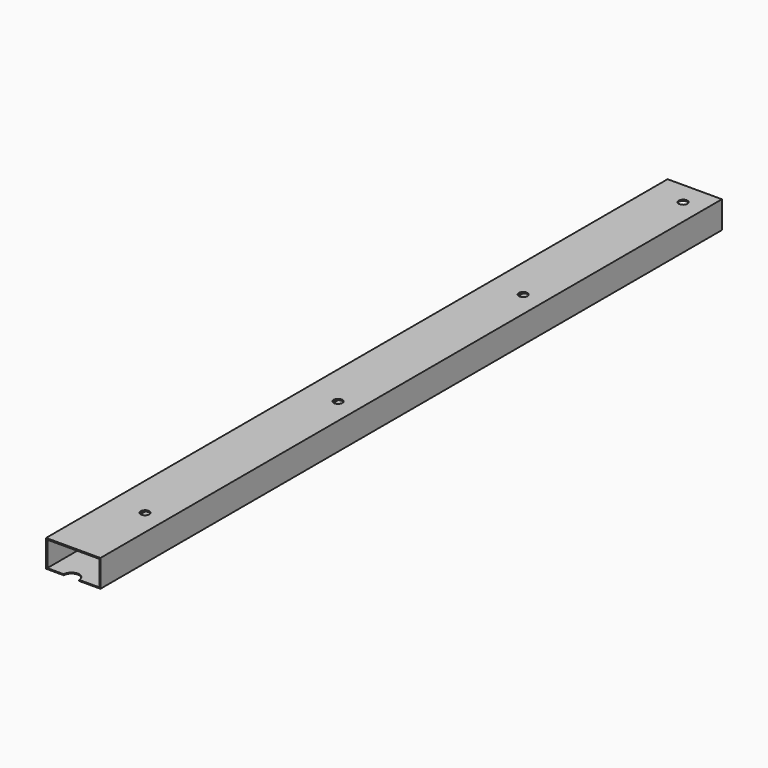
from build123d import *

# Parameters (mm, degrees)
F0_W     = 50
F0_H     = 25
F0_W_2   = 48
F0_H_2   = 23
F1_DEPTH = 715
F3_D     = 8
F5_R     = 6.8335490291
F6_DEPTH = 5
F7_R     = 7.0945759033
F8_DEPTH = 5


with BuildPart() as f1:
    # F0 (on Front) → F1 (new body)
    with BuildSketch(Plane.XZ):
        with Locations((25, 12.5)):
            Rectangle(F0_W, F0_H)
        with Locations((25.1003231639, 12.3982938598)):
            Rectangle(F0_W_2, F0_H_2, mode=Mode.SUBTRACT)
    extrude(amount=F1_DEPTH)

    # F3 (through all)
    with Locations(Plane(origin=(0, 0, 0), x_dir=(1, 0, 0), z_dir=(0, 0, -1))):
        with Locations((31.1003231639, 21), (31.1003231639, 205), (31.1003231639, 418), (31.1003231639, 640)):
            Hole(F3_D / 2)

    # F5 (on offset) → F6 (cut)
    with BuildSketch(Plane(origin=(0, 0, 0), x_dir=(1, 0, 0), z_dir=(0, 0, -1))):
        with Locations((22.4420260638, 0)):
            Circle(F5_R)
    extrude(amount=-F6_DEPTH, mode=Mode.SUBTRACT)

    # F7 (on offset) → F8 (cut)
    with BuildSketch(Plane(origin=(0, 0, 0), x_dir=(1, 0, 0), z_dir=(0, 0, -1))):
        with Locations((23.400099948, 715.0086760521)):
            Circle(F7_R)
    extrude(amount=-F8_DEPTH, mode=Mode.SUBTRACT)


solid = f1.part
